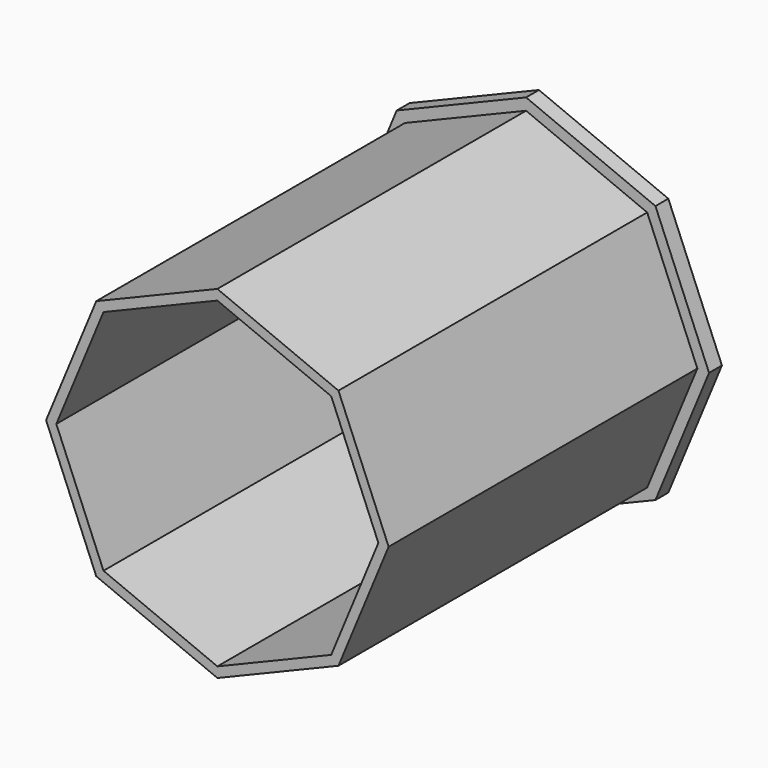
from build123d import *

# Parameters (mm, degrees)
F2_DEPTH = 5
F4_DEPTH = 120
F6_DEPTH = 118


with BuildPart() as f2:
    # F0 (on Front) → F2 (new body)
    with BuildSketch(Plane.XZ):
        Polygon((40.23458, -40.23458), (56.900289, 0), (40.23458, 40.23458), (0, 56.900289), (-40.23458, 40.23458), (-56.900289, 0), (-40.23458, -40.23458), (0, -56.900289), align=None)
    extrude(amount=F2_DEPTH)

    # F3 (on offset) → F4 (join)
    with BuildSketch(Plane.XZ.offset(5)):
        Polygon((37.659568, -37.659568), (53.258672, 0), (37.659568, 37.659568), (0, 53.258672), (-37.659568, 37.659568), (-53.258672, 0), (-37.659568, -37.659568), (0, -53.258672), align=None)
    extrude(amount=F4_DEPTH)

    # F5 (on face) → F6 (cut)
    with BuildSketch(Plane.XZ.offset(125)):
        Polygon((35.406429, -35.406429), (50.072253, 0), (35.406429, 35.406429), (0, 50.072253), (-35.406429, 35.406429), (-50.072253, 0), (-35.406429, -35.406429), (0, -50.072253), align=None)
    extrude(amount=-F6_DEPTH, mode=Mode.SUBTRACT)


solid = f2.part
